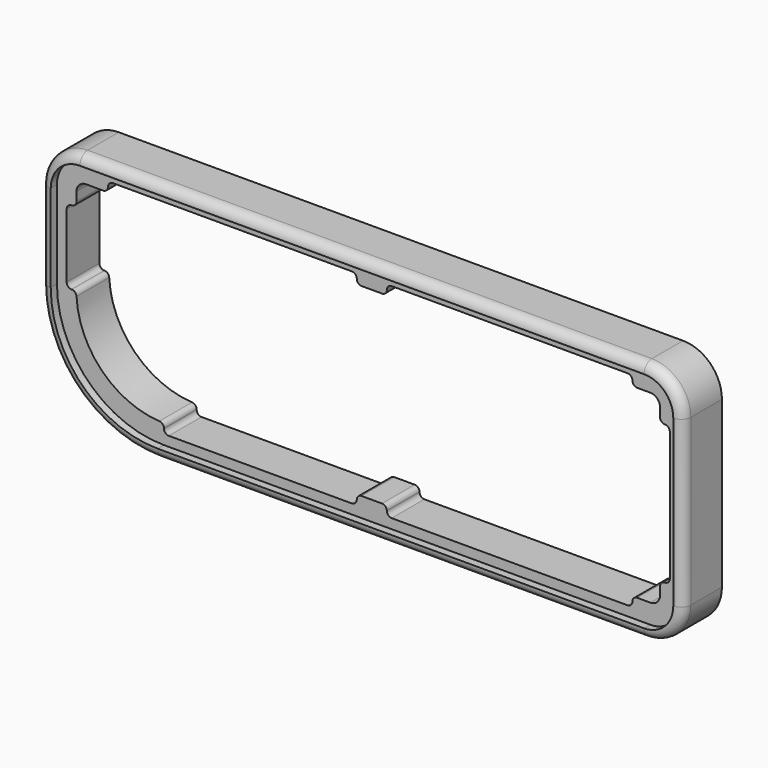
from build123d import *

# Parameters (mm, degrees)
F2_DEPTH = 25
F3_R     = 5
F4_DEPTH = 4
F6_DEPTH = 25


with BuildPart() as f2:
    # F1 (on Front) → F2 (new body)
    with BuildSketch(Plane.XZ):
        with BuildLine():
            Line((-4.9999973178, 100), (-4.9999973178, 55))
            ThreePointArc((-4.9999973178, 55), (12.5735950254, 12.5735950254), (55, -4.9999973178))
            Line((55, -4.9999973178), (305, -4.9999973178))
            ThreePointArc((305, -4.9999973178), (319.1421337271, 0.8578662729), (324.9999973178, 15))
            Line((324.9999973178, 15), (324.9999973178, 100))
            ThreePointArc((324.9999973178, 100), (319.1421337271, 114.1421337271), (305, 119.9999973178))
            Line((305, 119.9999973178), (15, 119.9999973178))
            ThreePointArc((15, 119.9999973178), (0.8578662729, 114.1421337271), (-4.9999973178, 100))
        make_face()
    extrude(amount=F2_DEPTH)

    # F3
    f3_edges = [f2.edges().sort_by_distance(p)[0] for p in [
        (160, -25, 119.999997),
        (0.857866, -25, 114.142134),
        (-4.999997, -25, 77.5),
        (12.573595, -25, 12.573595),
        (180, -25, -4.999997),
        (319.142134, -25, 0.857866),
        (324.999997, -25, 57.5),
        (319.142134, -25, 114.142134),
    ]]
    fillet(f3_edges, radius=F3_R)

    # F2_face (on face) + F0 (on Front) + F2_face1 (on face) → F4 (cut)
    with BuildSketch(Plane(origin=(162.4531537348, -25, 58.2425840515), x_dir=(1, 0, 0), z_dir=(0, -1, 0))):
        with BuildLine():
            Line((142.5468462652, 56.7574132663), (-147.4531537348, 56.7574132663))
            ThreePointArc((-147.4531537348, 56.7574132663), (-158.059753556, 52.3640157697), (-162.4531510526, 41.7574159485))
            Line((-162.4531510526, 41.7574159485), (-162.4531510526, -3.2425840515))
            ThreePointArc((-162.4531510526, -3.2425840515), (-146.3440248034, -42.1334551202), (-107.4531537348, -58.2425813693))
            Line((-107.4531537348, -58.2425813693), (142.5468462652, -58.2425813693))
            ThreePointArc((142.5468462652, -58.2425813693), (153.1534460864, -53.8491838727), (157.546843583, -43.2425840515))
            Line((157.546843583, -43.2425840515), (157.546843583, 41.7574159485))
            ThreePointArc((157.546843583, 41.7574159485), (153.1534460864, 52.3640157697), (142.5468462652, 56.7574132663))
        make_face()
    with BuildSketch(Plane.XZ):
        with BuildLine():
            Line((186.9708299637, 115), (189.8719519377, 0))
            Line((189.8719519377, 0), (305, 0))
            ThreePointArc((305, 0), (315.6066017178, 4.3933982822), (320, 15))
            Line((320, 15), (320, 100))
            ThreePointArc((320, 100), (315.6066017178, 110.6066017178), (305, 115))
            Line((305, 115), (186.9708299637, 115))
        make_face()
    with BuildSketch(Plane(origin=(162.5693555517, 0, 58.3192422461), x_dir=(1, 0, 0), z_dir=(0, 1, 0))):
        with BuildLine():
            Line((-167.5693528695, 3.3192422461), (-167.5693528695, -41.6807577539))
            ThreePointArc((-167.5693528695, -41.6807577539), (-161.7114892788, -55.8228914811), (-147.5693555517, -61.6807550717))
            Line((-147.5693555517, -61.6807550717), (142.4306444483, -61.6807550717))
            ThreePointArc((142.4306444483, -61.6807550717), (156.5727781754, -55.8228914811), (162.4306417661, -41.6807577539))
            Line((162.4306417661, -41.6807577539), (162.4306417661, 43.3192422461))
            ThreePointArc((162.4306417661, 43.3192422461), (156.5727781754, 57.4613759732), (142.4306444483, 63.3192395638))
            Line((142.4306444483, 63.3192395638), (-107.5693555517, 63.3192395638))
            ThreePointArc((-107.5693555517, 63.3192395638), (-149.9957605263, 45.7456472206), (-167.5693528695, 3.3192422461))
        make_face()
    extrude(amount=-F4_DEPTH, dir=(0, -1, 0), mode=Mode.SUBTRACT)

    # F5 (on face) → F6 (cut)
    with BuildSketch(Plane.XZ.offset(21)):
        with BuildLine():
            Line((298.2851588726, 10.0000026822), (305, 10.0000026822))
            ThreePointArc((305, 10.0000026822), (308.5355320093, 11.4644679907), (309.9999973178, 15))
            Line((309.9999973178, 15), (309.9999973178, 19.0326044708))
            ThreePointArc((309.9999973178, 19.0326044708), (310.7322303648, 20.8003714238), (312.4999973178, 21.5326044708))
            ThreePointArc((312.4999973178, 21.5326044708), (314.2677642708, 22.2648375179), (314.9999973178, 24.0326044708))
            Line((314.9999973178, 24.0326044708), (314.9999973178, 90.5494615436))
            ThreePointArc((314.9999973178, 90.5494615436), (314.2677642708, 92.3172284965), (312.4999973178, 93.0494615436))
            ThreePointArc((312.4999973178, 93.0494615436), (310.7322303648, 93.7816945906), (309.9999973178, 95.5494615436))
            Line((309.9999973178, 95.5494615436), (309.9999973178, 100))
            ThreePointArc((309.9999973178, 100), (308.5355320093, 103.5355320093), (305, 104.9999973178))
            Line((305, 104.9999973178), (298.2851588726, 104.9999973178))
            ThreePointArc((298.2851588726, 104.9999973178), (296.5173919196, 105.7322303648), (295.7851588726, 107.4999973178))
            ThreePointArc((295.7851588726, 107.4999973178), (295.0529258256, 109.2677642708), (293.2851588726, 109.9999973178))
            Line((293.2851588726, 109.9999973178), (172.0636063814, 109.9999973178))
            ThreePointArc((172.0636063814, 109.9999973178), (170.2958394284, 109.2677642708), (169.5636063814, 107.4999973178))
            ThreePointArc((169.5636063814, 107.4999973178), (168.8313733344, 105.7322303648), (167.0636063814, 104.9999973178))
            Line((167.0636063814, 104.9999973178), (156.6095525026, 104.9999973178))
            ThreePointArc((156.6095525026, 104.9999973178), (154.8417855497, 105.7322303648), (154.1095525026, 107.4999973178))
            ThreePointArc((154.1095525026, 107.4999973178), (153.3773194556, 109.2677642708), (151.6095525026, 109.9999973178))
            Line((151.6095525026, 109.9999973178), (28.7736566365, 109.9999973178))
            ThreePointArc((28.7736566365, 109.9999973178), (27.0058896835, 109.2677642708), (26.2736566365, 107.4999973178))
            ThreePointArc((26.2736566365, 107.4999973178), (25.5414235894, 105.7322303648), (23.7736566365, 104.9999973178))
            Line((23.7736566365, 104.9999973178), (15, 104.9999973178))
            ThreePointArc((15, 104.9999973178), (11.4644679907, 103.5355320093), (10.0000026822, 100))
            Line((10.0000026822, 100), (10.0000026822, 95.5494615436))
            ThreePointArc((10.0000026822, 95.5494615436), (9.2677696352, 93.7816945906), (7.5000026822, 93.0494615436))
            ThreePointArc((7.5000026822, 93.0494615436), (5.7322357292, 92.3172284965), (5.0000026822, 90.5494615436))
            Line((5.0000026822, 90.5494615436), (5.0000026822, 57.5))
            ThreePointArc((5.0000026822, 57.5), (5.7322357292, 55.732233047), (7.5000026822, 55))
            Line((7.5000026822, 55), (7.5658377834, 55))
            ThreePointArc((7.5658377834, 55), (9.2864557847, 54.3136906278), (10.0623727779, 52.6315789548))
            ThreePointArc((10.0623727779, 52.6315789548), (23.1801967432, 23.1801967432), (52.6315789548, 10.0623727779))
            ThreePointArc((52.6315789548, 10.0623727779), (54.3136906278, 9.2864557847), (55, 7.5658377834))
            Line((55, 7.5658377834), (55, 7.5000026822))
            ThreePointArc((55, 7.5000026822), (55.732233047, 5.7322357292), (57.5, 5.0000026822))
            Line((57.5, 5.0000026822), (151.6095525026, 5.0000026822))
            ThreePointArc((151.6095525026, 5.0000026822), (153.3773194556, 5.7322357292), (154.1095525026, 7.5000026822))
            ThreePointArc((154.1095525026, 7.5000026822), (154.8417855497, 9.2677696352), (156.6095525026, 10.0000026822))
            Line((156.6095525026, 10.0000026822), (167.0636063814, 10.0000026822))
            ThreePointArc((167.0636063814, 10.0000026822), (168.8313733344, 9.2677696352), (169.5636063814, 7.5000026822))
            ThreePointArc((169.5636063814, 7.5000026822), (170.2958394284, 5.7322357292), (172.0636063814, 5.0000026822))
            Line((172.0636063814, 5.0000026822), (293.2851588726, 5.0000026822))
            ThreePointArc((293.2851588726, 5.0000026822), (295.0529258256, 5.7322357292), (295.7851588726, 7.5000026822))
            ThreePointArc((295.7851588726, 7.5000026822), (296.5173919196, 9.2677696352), (298.2851588726, 10.0000026822))
        make_face()
    extrude(amount=-F6_DEPTH, mode=Mode.SUBTRACT)


solid = f2.part
